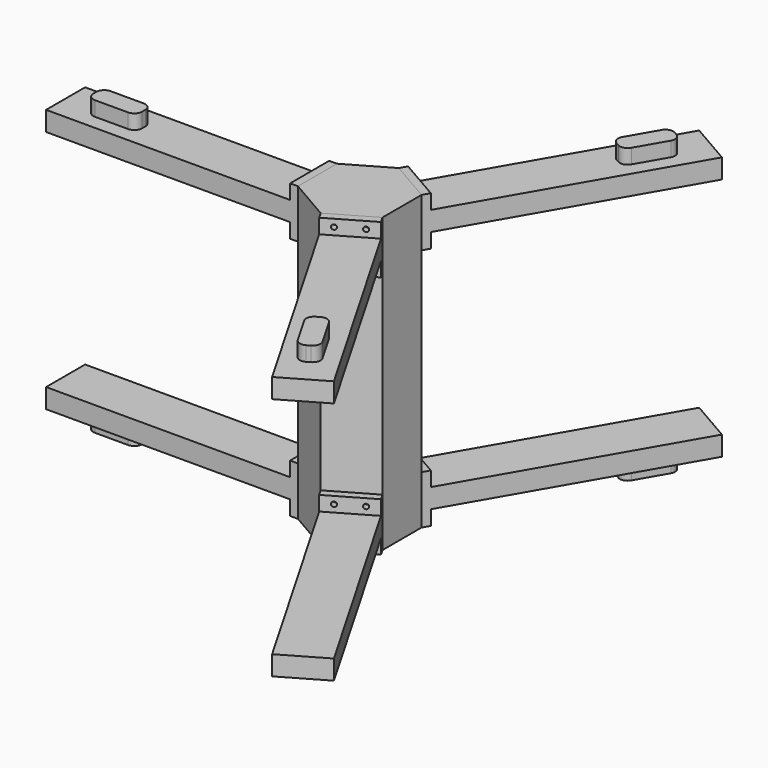
from build123d import *

# Parameters (mm, degrees)
F1_DEPTH  = 150
F2_W      = 50
F2_H      = 50
F3_DEPTH  = 8
F4_W      = 50
F4_H      = 20
F5_DEPTH  = 250
F8_D      = 5
F10_DEPTH = 15
F11_COUNT = 3


with BuildPart() as f1:
    # F0 (on Top) → F1 (new body, symmetric)
    with BuildSketch(Plane.XY):
        Polygon((0, 50), (-43.3012701892, 25), (-43.3012701892, -25), (0, -50), (43.3012701892, -25), (43.3012701892, 25), align=None)
    extrude(amount=F1_DEPTH, both=True)


with BuildPart() as f3:
    # F2 (on face) → F3 (new body)
    with BuildSketch(Plane(origin=(21.6506350946, -37.5, 0), x_dir=(0.8660254038, 0.5, 0), z_dir=(0.5, -0.8660254038, 0))):
        with Locations((0, 125)):
            Rectangle(F2_W, F2_H)
    extrude(amount=F3_DEPTH)

    # F4 (on face) → F5 (join)
    with BuildSketch(Plane(origin=(25.6506350946, -44.4282032303, 0), x_dir=(0.8660254038, 0.5, 0), z_dir=(0.5, -0.8660254038, 0))):
        with Locations((0, 125)):
            Rectangle(F4_W, F4_H)
    extrude(amount=F5_DEPTH)

    # F8 (through all)
    with Locations(Plane(origin=(25.6506350946, -44.4282032303, 0), x_dir=(0.8660254038, 0.5, 0), z_dir=(0.5, -0.8660254038, 0))):
        with Locations((-13, 142.5), (13, 142.5), (-13, 107.5), (13, 107.5)):
            Hole(F8_D / 2)

    # F9 (on face) → F10 (join)
    with BuildSketch(Plane.XY.offset(135)):
        with BuildLine():
            ThreePointArc((122.9903810568, -233.0255888326), (127.8480319262, -236.7529954429), (133.918584287, -235.9537920629))
            Line((133.918584287, -235.9537920629), (137.3826859022, -233.9537920629))
            ThreePointArc((137.3826859022, -233.9537920629), (141.1100925125, -229.0961411934), (140.3108891325, -223.0255888326))
            Line((140.3108891325, -223.0255888326), (123.3108891325, -193.5807251039))
            ThreePointArc((123.3108891325, -193.5807251039), (118.453238263, -189.8533184936), (112.3826859022, -190.6525218736))
            Line((112.3826859022, -190.6525218736), (108.918584287, -192.6525218736))
            ThreePointArc((108.918584287, -192.6525218736), (105.1911776767, -197.5101727431), (105.9903810568, -203.5807251039))
            Line((105.9903810568, -203.5807251039), (122.9903810568, -233.0255888326))
        make_face()
    extrude(amount=F10_DEPTH)


with BuildPart() as f11_1:
    # F11: instance of F3
    add(f3.part.rotate(Axis((0, 0, 0), (0, 0, 1)), 1 * 360 / F11_COUNT))


with BuildPart() as f11_2:
    # F11: instance of F3
    add(f3.part.rotate(Axis((0, 0, 0), (0, 0, 1)), 2 * 360 / F11_COUNT))


with BuildPart() as f12_1:
    # F12: instance of F11_2
    add(f11_2.part.mirror(Plane.XY))


with BuildPart() as f12_2:
    # F12: instance of F11_1
    add(f11_1.part.mirror(Plane.XY))


with BuildPart() as f12_3:
    # F12: instance of F3
    add(f3.part.mirror(Plane.XY))


solid = Compound([f1.part, f3.part, f11_1.part, f11_2.part, f12_1.part, f12_2.part, f12_3.part])
